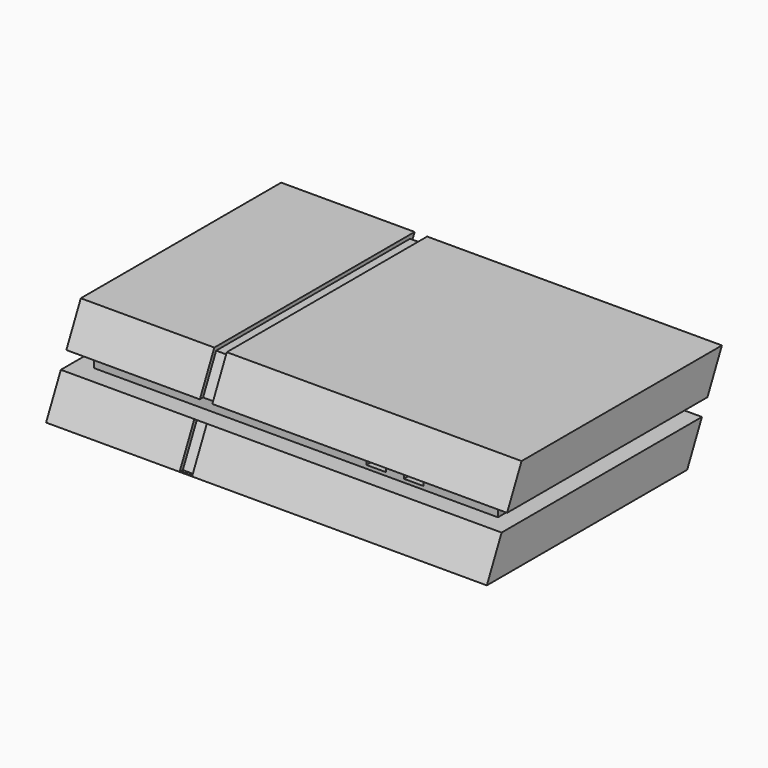
from build123d import *

# Parameters (mm, degrees)
F0_W      = 120
F0_H      = 80
F1_DEPTH  = 25
F3_DEPTH  = 120.001
F5_DEPTH  = 120.001
F7_DEPTH  = 5
F9_DEPTH  = 150
F11_DEPTH = 5
F13_DEPTH = 170
F14_W     = 3.3992808312
F14_H     = 11.5154450741
F14_H_2   = 11.5925325081
F15_DEPTH = 1
F16_W     = 3.3992808312
F16_H     = 68.1857028604
F17_DEPTH = 1
F18_W     = 3.3992808312
F18_H     = 10.4094055069
F18_H_2   = 12.2191561386
F19_DEPTH = 1
F20_W     = 5.3057130426
F20_H     = 2.1054418758
F20_W_2   = 5.30571118
F21_DEPTH = 25
F24_DEPTH = 25
F23_R     = 0.785
F25_DEPTH = 25
F26_W     = 10.8015254887
F26_H     = 6.9811940193
F27_DEPTH = 0.2
F28_W     = 5
F28_H     = 8.15
F29_DEPTH = 2.2
F30_W     = 5
F30_H     = 0.4
F31_DEPTH = 2.1


with BuildPart() as f1:
    # F0 (on Top) → F1 (new body)
    with BuildSketch(Plane.XY):
        Rectangle(F0_W, F0_H)
    extrude(amount=F1_DEPTH)

    # F2 (on face) → F3 (cut, through all)
    with BuildSketch(Plane.YZ.offset(60)):
        Polygon((-40, 0), (-28.1857028604, 25), (-40, 25), align=None)
    extrude(amount=-F3_DEPTH, mode=Mode.SUBTRACT)

    # F4 (on face) → F5 (cut, through all)
    with BuildSketch(Plane.YZ.offset(60)):
        Polygon((40, 0), (40, 25), (28.1857009977, 0), align=None)
    extrude(amount=-F5_DEPTH, mode=Mode.SUBTRACT)

    # F6 (on face) → F7 (cut)
    with BuildSketch(Plane.YZ.offset(60)):
        Polygon((35.0798550639, 14.5885804668), (-33.1058470208, 14.5885804668), (-34.9799869852, 10.6227500364), (33.205714804, 10.6227500364), align=None)
    extrude(amount=-F7_DEPTH, mode=Mode.SUBTRACT)

    # F8 (on face) → F9 (cut)
    with BuildSketch(Plane.YZ.offset(55)):
        Polygon((-33.1058470208, 14.5885804668), (-34.9799869852, 10.6227500364), (-29.9799869852, 10.6227500364), (-29.9799869852, 14.5885804668), align=None)
    extrude(amount=-F9_DEPTH, mode=Mode.SUBTRACT)

    # F10 (on face) → F11 (cut)
    with BuildSketch(Plane(origin=(-60, 0, 0), x_dir=(0, -1, 0), z_dir=(-1, 0, 0))):
        Polygon((29.9799869852, 10.6227500364), (29.9799869852, 14.5885804668), (-35.0798550639, 14.5885804668), (-33.205714804, 10.6227500364), align=None)
    extrude(amount=-F11_DEPTH, mode=Mode.SUBTRACT)

    # F12 (on face) → F13 (cut)
    with BuildSketch(Plane(origin=(-55, 0, 0), x_dir=(0, -1, 0), z_dir=(-1, 0, 0))):
        Polygon((-30.0832055509, 14.5885804668), (-35.0798550639, 14.5885804668), (-33.205714804, 10.6227500364), (-30.0832055509, 10.6227500364), align=None)
    extrude(amount=-F13_DEPTH, mode=Mode.SUBTRACT)

    # F14 (on face) → F15 (cut)
    with BuildSketch(Plane(origin=(0, -32.6977921499, 15.4520572908), x_dir=(1, 0, 0), z_dir=(0, -0.9041265419, 0.4272647847))):
        with Locations((-21.9536880031, 4.8026827457)):
            Rectangle(F14_W, F14_H)
        with Locations((-21.9536880031, -11.1376703717)):
            Rectangle(F14_W, F14_H_2)
    extrude(amount=-F15_DEPTH, mode=Mode.SUBTRACT)

    # F16 (on face) → F17 (cut)
    with BuildSketch(Plane.XY.offset(25)):
        with Locations((-21.9536880031, 5.9071485698)):
            Rectangle(F16_W, F16_H)
    extrude(amount=-F17_DEPTH, mode=Mode.SUBTRACT)

    # F18 (on face) → F19 (cut)
    with BuildSketch(Plane(origin=(0, 23.0402534943, -10.8881777548), x_dir=(-1, 0, 0), z_dir=(0, 0.9041265159, -0.4272648398))):
        with Locations((21.9536880031, 33.3830138355)):
            Rectangle(F18_W, F18_H)
        with Locations((21.9536880031, 17.6823684014)):
            Rectangle(F18_W, F18_H_2)
    extrude(amount=-F19_DEPTH, mode=Mode.SUBTRACT)

    # F20 (on face) → F21 (cut)
    with BuildSketch(Plane.XZ.offset(29.9799869852)):
        with Locations((21.8807244673, 12.5863919966)):
            Rectangle(F20_W, F20_H)
        with Locations((32.071063295, 12.5863919966)):
            Rectangle(F20_W_2, F20_H)
    extrude(amount=-F21_DEPTH, mode=Mode.SUBTRACT)

    # F22 (on face) → F24 (cut)
    with BuildSketch(Plane(origin=(0, 23.0402534943, -10.8881777548), x_dir=(-1, 0, 0), z_dir=(0, 0.9041265159, -0.4272648398))):
        with BuildLine():
            ThreePointArc((-44.3166374787, 16.9950310891), (-43.875457386, 17.751342396), (-43.7221280526, 18.6133962125))
            ThreePointArc((-43.7221280526, 18.6133962125), (-43.875457386, 19.4754500289), (-44.3166374787, 20.2317613358))
            ThreePointArc((-44.3166374787, 20.2317613358), (-44.9111469047, 18.6133962125), (-44.3166374787, 16.9950310891))
        make_face()
        with BuildLine():
            ThreePointArc((-44.3166374787, 16.9950310891), (-44.9111469047, 18.6133962125), (-44.3166374787, 20.2317613358))
            ThreePointArc((-44.3166374787, 20.2317613358), (-48.7221280526, 18.6133962125), (-44.3166374787, 16.9950310891))
        make_face()
        with BuildLine():
            ThreePointArc((-44.3166374787, 20.2317613358), (-43.875457386, 19.4754500289), (-43.7221280526, 18.6133962125))
            ThreePointArc((-43.7221280526, 18.6133962125), (-43.875457386, 17.751342396), (-44.3166374787, 16.9950310891))
            ThreePointArc((-44.3166374787, 16.9950310891), (-41.5490930882, 16.2667255459), (-39.9111469047, 18.6133962125))
            ThreePointArc((-39.9111469047, 18.6133962125), (-41.5490930882, 20.9600668791), (-44.3166374787, 20.2317613358))
        make_face()
    extrude(amount=-F24_DEPTH, mode=Mode.SUBTRACT)

    # F23 (on face) → F25 (join)
    with BuildSketch(Plane(origin=(0, 23.0402534943, -10.8881777548), x_dir=(-1, 0, 0), z_dir=(0, 0.9041265159, -0.4272648398))):
        with Locations((-42.3572132297, 18.6463277787)):
            Circle(F23_R)
        with Locations((-46.2783562048, 18.6463277787)):
            Circle(F23_R)
    extrude(amount=-F25_DEPTH)

    # F26 (on face) → F27 (cut)
    with BuildSketch(Plane(origin=(0, 23.0402534943, -10.8881777548), x_dir=(-1, 0, 0), z_dir=(0, 0.9041265159, -0.4272648398))):
        with Locations((-44.3166374787, 18.5013003647)):
            Rectangle(F26_W, F26_H)
        with BuildLine():
            ThreePointArc((-44.3166374787, 16.9950310891), (-48.7221280526, 18.6133962125), (-44.3166374787, 20.2317613358))
            ThreePointArc((-44.3166374787, 20.2317613358), (-39.9111469047, 18.6133962125), (-44.3166374787, 16.9950310891))
        make_face(mode=Mode.SUBTRACT)
    extrude(amount=-F27_DEPTH, mode=Mode.SUBTRACT)

    # F28 (on face) → F29 (cut)
    with BuildSketch(Plane(origin=(0, 23.0402534943, -10.8881777548), x_dir=(-1, 0, 0), z_dir=(0, 0.9041265159, -0.4272648398))):
        with Locations((50.181994272, 33.814091168)):
            Rectangle(F28_W, F28_H)
        with Locations((43.5504163067, 33.814091168)):
            Rectangle(F28_W, F28_H)
        with Locations((36.7609430726, 33.814091168)):
            Rectangle(F28_W, F28_H)
        with Locations((30.1819981592, 33.814091168)):
            Rectangle(F28_W, F28_H)
    extrude(amount=-F29_DEPTH, mode=Mode.SUBTRACT)

    # F30 (on face) → F31 (join)
    with BuildSketch(Plane(origin=(0, 23.0402534943, -10.8881777548), x_dir=(-1, 0, 0), z_dir=(0, 0.9041265159, -0.4272648398))):
        with Locations((50.181994272, 36.916055125)):
            Rectangle(F30_W, F30_H)
        with Locations((43.5504163067, 36.916055125)):
            Rectangle(F30_W, F30_H)
        with Locations((50.181994272, 35.3494960487)):
            Rectangle(F30_W, F30_H)
        with Locations((43.5504163067, 35.3494960487)):
            Rectangle(F30_W, F30_H)
        with Locations((43.5504163067, 33.614091168)):
            Rectangle(F30_W, F30_H)
        with Locations((50.181994272, 33.614091168)):
            Rectangle(F30_W, F30_H)
        with Locations((50.181994272, 31.5114263117)):
            Rectangle(F30_W, F30_H)
        with Locations((43.5504163067, 31.5114263117)):
            Rectangle(F30_W, F30_H)
        with Locations((43.5504163067, 29.939091168)):
            Rectangle(F30_W, F30_H)
        with Locations((50.181994272, 29.939091168)):
            Rectangle(F30_W, F30_H)
        with Locations((30.1819981592, 36.916055125)):
            Rectangle(F30_W, F30_H)
        with Locations((36.7609430726, 36.916055125)):
            Rectangle(F30_W, F30_H)
        with Locations((36.7609430726, 35.3494960487)):
            Rectangle(F30_W, F30_H)
        with Locations((30.1819981592, 35.3494960487)):
            Rectangle(F30_W, F30_H)
        with Locations((30.1819981592, 33.614091168)):
            Rectangle(F30_W, F30_H)
        with Locations((36.7609430726, 33.614091168)):
            Rectangle(F30_W, F30_H)
        with Locations((30.1819981592, 31.5114263117)):
            Rectangle(F30_W, F30_H)
        with Locations((36.7609430726, 31.5114263117)):
            Rectangle(F30_W, F30_H)
        with Locations((30.1819981592, 29.939091168)):
            Rectangle(F30_W, F30_H)
        with Locations((36.7609430726, 29.939091168)):
            Rectangle(F30_W, F30_H)
    extrude(amount=-F31_DEPTH)


solid = f1.part
